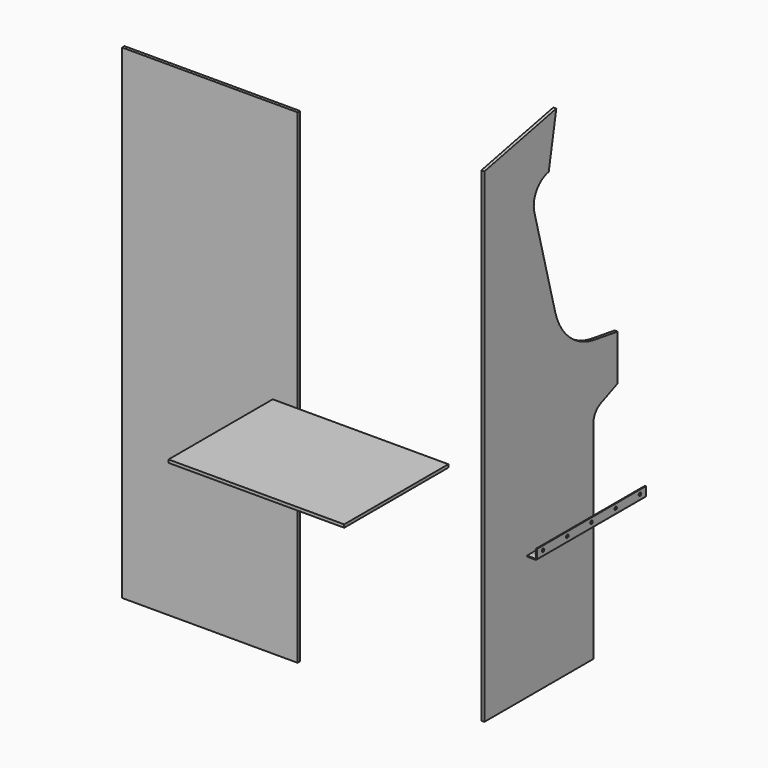
from build123d import *

# Parameters (mm, degrees)
F1_DEPTH  = 5
F2_W      = 580
F2_H      = 430
F3_DEPTH  = 5
F5_DEPTH  = 225
F6_R      = 5
F7_R      = 5.147511
F8_DEPTH  = 3
F9_R      = 5.15
F10_DEPTH = 3
F11_W     = 580
F11_H     = 1600
F12_DEPTH = 5


with BuildPart() as f1:
    # F0 (on Right) → F1 (new body, symmetric)
    with BuildSketch(Plane.YZ):
        with BuildLine():
            Line((326.088439, 861.776583), (29.088439, 799.776583))
            Line((29.088439, 799.776583), (29.088439, -800.223417))
            Line((29.088439, -800.223417), (479.088439, -800.223417))
            Line((479.088439, -800.223417), (479.088439, -115.454404))
            ThreePointArc((479.088439, -115.454404), (487.446626, -87.778433), (509.726815, -69.355299))
            Line((509.726815, -69.355299), (579.088439, -40.223417))
            Line((579.088439, -40.223417), (579.088439, 110.776583))
            Line((579.088439, 110.776583), (483.938849, 125.62478))
            ThreePointArc((483.938849, 125.62478), (380.861774, 174.683458), (321.412692, 272.138288))
            Line((321.412692, 272.138288), (235.415673, 597.584831))
            ThreePointArc((235.415673, 597.584831), (244.524753, 656.810026), (294.105218, 690.460829))
            Line((294.105218, 690.460829), (294.802907, 690.591645))
            Line((294.802907, 690.591645), (326.088439, 861.776583))
        make_face()
    extrude(amount=F1_DEPTH, both=True)


with BuildPart() as f3:
    # F2 (on Top) → F3 (new body, symmetric)
    with BuildSketch(Plane.XY):
        with Locations((-290, -328.065632)):
            Rectangle(F2_W, F2_H)
    extrude(amount=F3_DEPTH, both=True)


with BuildPart() as f5:
    # F4 (on Front) → F5 (new body, symmetric)
    with BuildSketch(Plane.XZ):
        Polygon((381.969413, -71.677771), (378.969413, -71.677771), (378.969413, -101.677771), (348.969413, -101.677771), (348.969413, -104.677771), (381.969413, -104.677771), align=None)
    extrude(amount=F5_DEPTH, both=True)

    # F6
    f6_edges = [f5.edges().sort_by_distance(p)[0] for p in [
        (381.969413, 0, -104.677771),
        (378.969413, 0, -101.677771),
    ]]
    fillet(f6_edges, radius=F6_R)

    # F7 (on face) → F8 (cut, through all)
    with BuildSketch(Plane.YZ.offset(381.969413)):
        with Locations((200, -85.677771)):
            Circle(F7_R)
        with Locations((0, -85.677771)):
            Circle(F7_R)
        with Locations((-100, -85.677771)):
            Circle(F7_R)
        with Locations((100, -85.677771)):
            Circle(F7_R)
        with Locations((-200, -85.677771)):
            Circle(F7_R)
    extrude(amount=-F8_DEPTH, mode=Mode.SUBTRACT)

    # F9 (on face) → F10 (cut, through all)
    with BuildSketch(Plane(origin=(0, 0, -104.677771), x_dir=(1, 0, 0), z_dir=(0, 0, -1))):
        with Locations((362.969413, 200)):
            Circle(F9_R)
        with Locations((362.969413, 100)):
            Circle(F9_R)
        with Locations((362.969413, 0)):
            Circle(F9_R)
        with Locations((362.969413, -100)):
            Circle(F9_R)
        with Locations((362.969413, -200)):
            Circle(F9_R)
    extrude(amount=-F10_DEPTH, mode=Mode.SUBTRACT)


with BuildPart() as f12:
    # F11 (on Front) → F12 (new body, symmetric)
    with BuildSketch(Plane.XZ):
        with Locations((-874.023603, -6.247312)):
            Rectangle(F11_W, F11_H)
    extrude(amount=F12_DEPTH, both=True)


solid = Compound([f1.part, f3.part, f5.part, f12.part])
